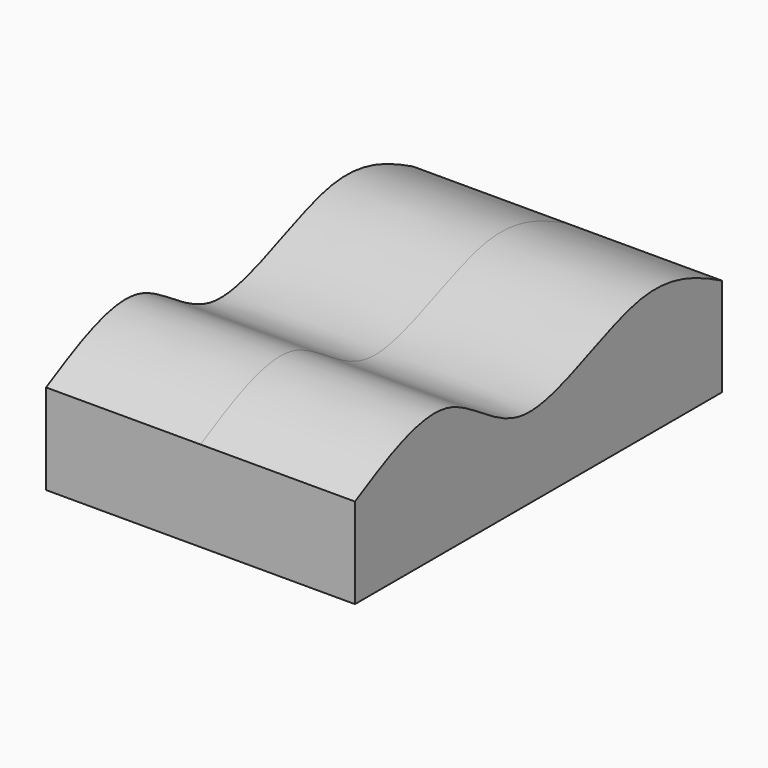
from build123d import *

# Parameters (mm, degrees)
F1_DEPTH      = 79.248
F1_DEPTH_BACK = 79.248


with BuildPart() as f1:
    # F0 (on Right) → F1 (new body, two sides)
    with BuildSketch(Plane.YZ) as f1_sk:
        with BuildLine():
            add(Edge.make_bspline(
                [(-87.8269448876, 46.3654994965), (-67.3718330678, 57.497701411), (-27.2656839592, 79.3356256267), (18.7585197488, 22.3790043158), (95.5671107391, 76.1054529444), (132.3078811353, 58.5542912131), (147.5671231747, 50.474466549)],
                knots=[0, 0, 0, 0, 0.2500072518, 0.4854414047, 0.7675219262, 1, 1, 1, 1], degree=3))
            Line((-87.8269448876, 46.3654994965), (-87.8269448876, 0))
            Line((-87.8269448876, 0), (147.5671231747, 0))
            Line((147.5671231747, 0), (147.5671231747, 50.474466549))
        make_face()
    extrude(amount=F1_DEPTH)
    extrude(f1_sk.sketch, amount=-F1_DEPTH_BACK)


solid = f1.part
